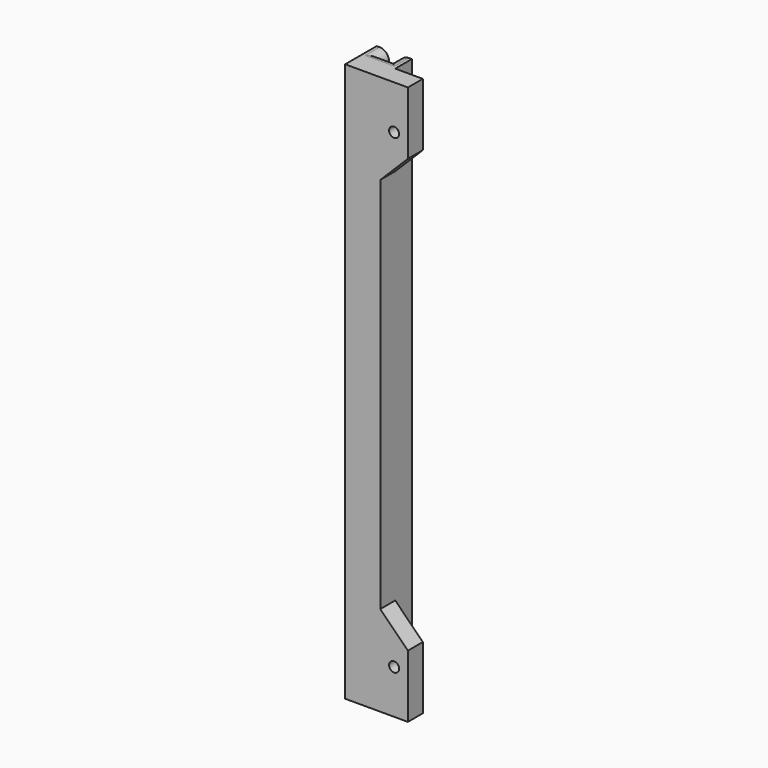
from build123d import *

# Parameters (mm, degrees)
PAD_DEPTH       = 178
SKETCH001_R     = 1.6
POCKET_DEPTH    = 12.551
POCKET002_DEPTH = 5
FILLET_R        = 3


with BuildPart() as part:
    # Sketch → Pad (new body)
    with BuildSketch(Plane.XY):
        Polygon((-5.6, 0), (14.4, 0), (14.4, 5.95), (5.6, 5.95), (5.6, 12.55), (1.65, 12.55), (1.65, 9.8), (-1.65, 9.8), (-1.65, 12.55), (-5.6, 12.55), align=None)
    extrude(amount=-PAD_DEPTH)

    # Sketch001 (on Face6 of Pad) → Pocket (cut, through all)
    with BuildSketch(Plane.XZ):
        with Locations((10, -164)):
            Circle(SKETCH001_R)
        with Locations((10, -14)):
            Circle(SKETCH001_R)
        Polygon((14.4, -158), (5.6, -149.2), (5.6, -28.8), (14.4, -20), align=None)
    extrude(amount=-POCKET_DEPTH, mode=Mode.SUBTRACT)

    # Sketch003 (on DatumPlane) → Pocket002 (cut)
    with BuildSketch(Plane(origin=(0, 3, 0), x_dir=(-1, 0, 0), z_dir=(0, 1, 0))):
        Polygon((-7.2, -15.616581), (-7.2, -12.383419), (-10, -10.766838), (-12.8, -12.383419), (-12.8, -15.616581), (-10, -17.233162), align=None)
        Polygon((-7.2, -165.616581), (-7.2, -162.383419), (-10, -160.766838), (-12.8, -162.383419), (-12.8, -165.616581), (-10, -167.233162), align=None)
    extrude(amount=POCKET002_DEPTH, mode=Mode.SUBTRACT)

    # Fillet
    fillet_edges = [part.edges().sort_by_distance(p)[0] for p in [
        (-1.65, 11.175, 0),
        (0, 9.8, 0),
        (1.65, 11.175, 0),
        (0, 9.8, -178),
        (-1.65, 11.175, -178),
        (1.65, 11.175, -178),
    ]]
    fillet(fillet_edges, radius=FILLET_R)


solid = part.part
